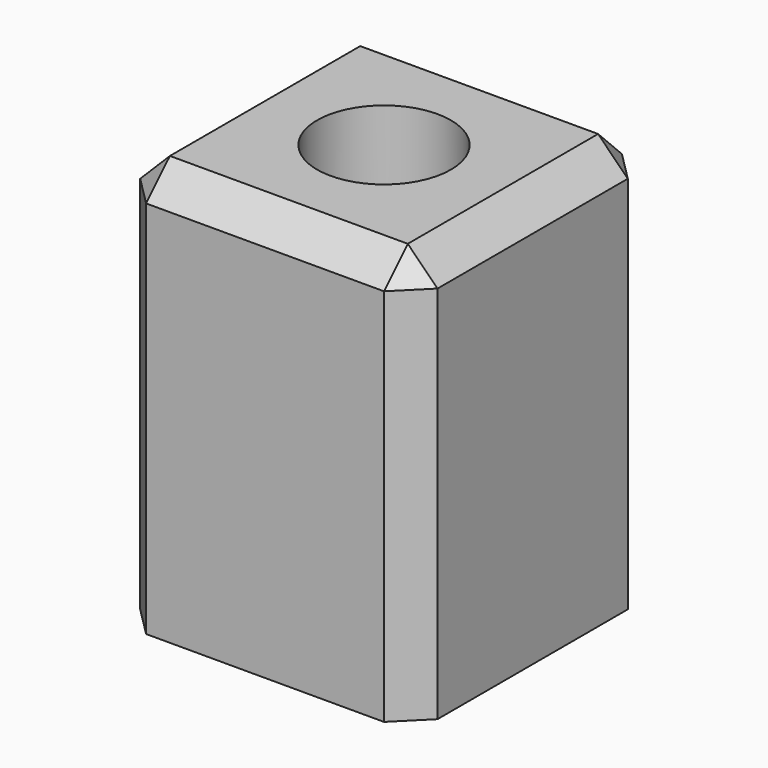
from build123d import *

# Parameters (mm, degrees)
F0_W     = 101.6
F0_H     = 101.6
F1_DEPTH = 139.7
F2_SIZE  = 10.16
F3_R     = 22.86
F4_DEPTH = 38.1
F5_R     = 12.7
F6_DEPTH = 12.7


with BuildPart() as f1:
    # F0 (on Top) → F1 (new body)
    with BuildSketch(Plane.XY):
        Rectangle(F0_W, F0_H)
    extrude(amount=F1_DEPTH)

    # F2
    f2_edges = [f1.edges().sort_by_distance(p)[0] for p in [
        (0, -50.8, 139.7),
        (-50.8, 0, 139.7),
        (50.8, 0, 139.7),
        (0, 50.8, 139.7),
        (-50.8, 50.8, 69.85),
        (50.8, 50.8, 69.85),
        (50.8, -50.8, 69.85),
        (-50.8, -50.8, 69.85),
    ]]
    chamfer(f2_edges, length=F2_SIZE)

    # F3 (on face) → F4 (cut)
    with BuildSketch(Plane.XY.offset(139.7)):
        Circle(F3_R)
    extrude(amount=-F4_DEPTH, mode=Mode.SUBTRACT)

    # F5 (on face) → F6 (cut)
    with BuildSketch(Plane(origin=(0, 0, 0), x_dir=(1, 0, 0), z_dir=(0, 0, -1))):
        Circle(F5_R)
    extrude(amount=-F6_DEPTH, mode=Mode.SUBTRACT)


solid = f1.part
